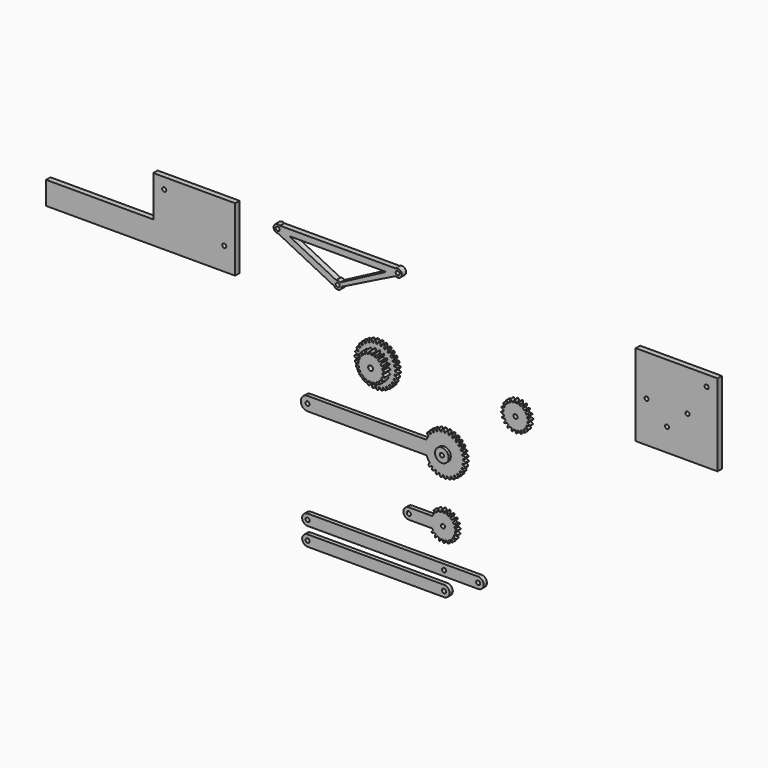
from build123d import *

# Parameters (mm, degrees)
F1_R     = 1.5
F2_DEPTH = 3
F3_DEPTH = 5
F0_R     = 1.5
F4_DEPTH = 3
F0_R_2   = 1.780497
F5_DEPTH = 8
F6_DEPTH = 3
F7_DEPTH = 25
F8_W     = 60
F8_H     = 60
F8_R     = 1.5
F9_DEPTH = 4


with BuildPart() as f2:
    # F1 (on Front) → F2 (new body)
    with BuildSketch(Plane.XZ):
        with BuildLine():
            Line((14.136599, -45.575803), (14.314097, -44.901619))
            ThreePointArc((14.314097, -44.901619), (13.567815, -44.128367), (12.565861, -43.739851))
            ThreePointArc((12.565861, -43.739851), (12.635517, -43.328711), (12.692717, -42.915654))
            ThreePointArc((12.692717, -42.915654), (13.765127, -42.846413), (14.70939, -42.33336))
            Line((14.70939, -42.33336), (14.742838, -41.637006))
            ThreePointArc((14.742838, -41.637006), (13.852096, -41.035811), (12.79126, -40.864104))
            ThreePointArc((12.79126, -40.864104), (12.773913, -40.447466), (12.743984, -40.031542))
            ThreePointArc((12.743984, -40.031542), (13.778563, -39.740848), (14.595522, -39.042683))
            Line((14.595522, -39.042683), (14.483459, -38.354591))
            ThreePointArc((14.483459, -38.354591), (13.487186, -37.95173), (12.413832, -38.004335))
            ThreePointArc((12.413832, -38.004335), (12.31024, -37.600408), (12.19449, -37.199796))
            ThreePointArc((12.19449, -37.199796), (13.146022, -36.700353), (13.799972, -35.84759))
            Line((13.799972, -35.84759), (13.547295, -35.197834))
            ThreePointArc((13.547295, -35.197834), (12.489034, -35.010913), (11.450073, -35.285531))
            ThreePointArc((11.450073, -35.285531), (11.264763, -34.911968), (11.06825, -34.544176))
            ThreePointArc((11.06825, -34.544176), (11.895149, -33.857813), (12.357509, -32.887721))
            Line((12.357509, -32.887721), (11.975262, -32.304698))
            ThreePointArc((11.975262, -32.304698), (10.901264, -32.341886), (9.942103, -32.826516))
            ThreePointArc((9.942103, -32.826516), (9.683175, -32.499644), (9.414488, -32.180747))
            ThreePointArc((9.414488, -32.180747), (10.080614, -31.337461), (10.331176, -30.292437))
            Line((10.331176, -30.292437), (9.836065, -29.801628))
            ThreePointArc((9.836065, -29.801628), (8.793268, -30.061301), (7.955827, -30.73476))
            ThreePointArc((7.955827, -30.73476), (7.634597, -30.468866), (7.305479, -30.212801))
            ThreePointArc((7.305479, -30.212801), (7.781719, -29.249447), (7.809534, -28.175165))
            Line((7.809534, -28.175165), (7.223198, -27.798021))
            ThreePointArc((7.223198, -27.798021), (6.257177, -28.268828), (5.578056, -29.101685))
            ThreePointArc((5.578056, -29.101685), (5.208563, -28.908389), (4.833398, -28.726347))
            ThreePointArc((4.833398, -28.726347), (5.098939, -27.685028), (4.90279, -26.628439))
            Line((4.90279, -26.628439), (4.250854, -26.381442))
            ThreePointArc((4.250854, -26.381442), (3.40383, -27.042809), (2.91271, -27.998663))
            ThreePointArc((2.91271, -27.998663), (2.511103, -27.886413), (2.106287, -27.78635))
            ThreePointArc((2.106287, -27.78635), (2.149523, -26.712578), (1.737983, -25.719859))
            Line((1.737983, -25.719859), (1.04894, -25.613805))
            ThreePointArc((1.04894, -25.613805), (0.357931, -26.436825), (0.076276, -27.473901))
            ThreePointArc((0.076276, -27.473901), (-0.339893, -27.447603), (-0.756667, -27.433892))
            ThreePointArc((-0.756667, -27.433892), (-0.937625, -26.374595), (-1.54657, -25.489134))
            Line((-1.54657, -25.489134), (-2.242606, -25.528657))
            ThreePointArc((-2.242606, -25.528657), (-2.747399, -26.477362), (-2.807278, -27.550334))
            ThreePointArc((-2.807278, -27.550334), (-3.219821, -27.611137), (-3.630338, -27.684378))
            ThreePointArc((-3.630338, -27.684378), (-4.027582, -26.685853), (-4.807318, -25.946347))
            Line((-4.807318, -25.946347), (-5.479926, -26.129721))
            ThreePointArc((-5.479926, -26.129721), (-5.776442, -27.162646), (-5.611929, -28.224622))
            ThreePointArc((-5.611929, -28.224622), (-6.002815, -28.369868), (-6.389133, -28.52686))
            ThreePointArc((-6.389133, -28.52686), (-6.985302, -27.632747), (-7.90175, -27.071517))
            Line((-7.90175, -27.071517), (-8.521535, -27.390727))
            ThreePointArc((-8.521535, -27.390727), (-8.596814, -28.46273), (-8.215099, -29.467294))
            ThreePointArc((-8.215099, -29.467294), (-8.567245, -29.690636), (-8.912481, -29.924518))
            ThreePointArc((-8.912481, -29.924518), (-9.681519, -29.173893), (-10.694626, -28.815468))
            Line((-10.694626, -28.815468), (-11.2345, -29.256564))
            ThreePointArc((-11.2345, -29.256564), (-11.085252, -30.320791), (-10.503018, -31.224041))
            ThreePointArc((-10.503018, -31.224041), (-10.801033, -31.515717), (-11.090098, -31.816266))
            ThreePointArc((-11.090098, -31.816266), (-11.998394, -31.241937), (-13.063883, -31.101981))
            Line((-13.063883, -31.101981), (-13.500251, -31.645684))
            ThreePointArc((-13.500251, -31.645684), (-13.132998, -32.655625), (-12.375692, -33.418083))
            ThreePointArc((-12.375692, -33.418083), (-13.200173, -34.780929), (-13.862097, -36.229713))
            Line((-13.862097, -36.229713), (-101.001895, -36.229713))
            ThreePointArc((-101.001895, -36.229713), (-106.001895, -41.229713), (-101.001895, -46.229713))
            Line((-101.001895, -46.229713), (-13.862097, -46.229713))
            ThreePointArc((-13.862097, -46.229713), (-12.814955, -48.359679), (-11.418278, -50.278678))
            ThreePointArc((-11.418278, -50.278678), (-12.084404, -51.121964), (-12.334966, -52.166988))
            Line((-12.334966, -52.166988), (-11.839855, -52.657797))
            ThreePointArc((-11.839855, -52.657797), (-10.797058, -52.398124), (-9.959617, -51.724665))
            ThreePointArc((-9.959617, -51.724665), (-9.638387, -51.990559), (-9.309269, -52.246624))
            ThreePointArc((-9.309269, -52.246624), (-9.785509, -53.209978), (-9.813324, -54.28426))
            Line((-9.813324, -54.28426), (-9.226988, -54.661405))
            ThreePointArc((-9.226988, -54.661405), (-8.260967, -54.190597), (-7.581846, -53.35774))
            ThreePointArc((-7.581846, -53.35774), (-7.212353, -53.551036), (-6.837188, -53.733078))
            ThreePointArc((-6.837188, -53.733078), (-7.102729, -54.774397), (-6.90658, -55.830986))
            Line((-6.90658, -55.830986), (-6.254644, -56.077983))
            ThreePointArc((-6.254644, -56.077983), (-5.40762, -55.416616), (-4.9165, -54.460762))
            ThreePointArc((-4.9165, -54.460762), (-4.514893, -54.573012), (-4.110077, -54.673076))
            ThreePointArc((-4.110077, -54.673076), (-4.153313, -55.746848), (-3.741773, -56.739566))
            Line((-3.741773, -56.739566), (-3.05273, -56.84562))
            ThreePointArc((-3.05273, -56.84562), (-2.361721, -56.0226), (-2.080066, -54.985524))
            ThreePointArc((-2.080066, -54.985524), (-1.663897, -55.011823), (-1.247123, -55.025533))
            ThreePointArc((-1.247123, -55.025533), (-1.066165, -56.08483), (-0.45722, -56.970292))
            Line((-0.45722, -56.970292), (0.238816, -56.930768))
            ThreePointArc((0.238816, -56.930768), (0.743609, -55.982064), (0.803488, -54.909091))
            ThreePointArc((0.803488, -54.909091), (1.216031, -54.848288), (1.626548, -54.775047))
            ThreePointArc((1.626548, -54.775047), (2.023792, -55.773573), (2.803528, -56.513078))
            Line((2.803528, -56.513078), (3.476136, -56.329704))
            ThreePointArc((3.476136, -56.329704), (3.772652, -55.296779), (3.608139, -54.234804))
            ThreePointArc((3.608139, -54.234804), (3.999025, -54.089557), (4.385343, -53.932565))
            ThreePointArc((4.385343, -53.932565), (4.981512, -54.826679), (5.89796, -55.387908))
            Line((5.89796, -55.387908), (6.517745, -55.068698))
            ThreePointArc((6.517745, -55.068698), (6.593024, -53.996696), (6.211309, -52.992131))
            ThreePointArc((6.211309, -52.992131), (6.563455, -52.768789), (6.908691, -52.534908))
            ThreePointArc((6.908691, -52.534908), (7.677728, -53.285532), (8.690836, -53.643957))
            Line((8.690836, -53.643957), (9.23071, -53.202862))
            ThreePointArc((9.23071, -53.202862), (9.081462, -52.138634), (8.499228, -51.235385))
            ThreePointArc((8.499228, -51.235385), (8.797243, -50.943708), (9.086308, -50.643159))
            ThreePointArc((9.086308, -50.643159), (9.994604, -51.217488), (11.060093, -51.357444))
            Line((11.060093, -51.357444), (11.496461, -50.813741))
            ThreePointArc((11.496461, -50.813741), (11.129208, -49.8038), (10.371902, -49.041342))
            ThreePointArc((10.371902, -49.041342), (10.602761, -48.694078), (10.823022, -48.339997))
            ThreePointArc((10.823022, -48.339997), (11.830879, -48.712931), (12.902184, -48.6283))
            Line((12.902184, -48.6283), (13.215973, -48.005753))
            ThreePointArc((13.215973, -48.005753), (12.646768, -47.094237), (11.747486, -46.505894))
            ThreePointArc((11.747486, -46.505894), (11.901101, -46.11822), (12.04293, -45.726082))
            ThreePointArc((12.04293, -45.726082), (13.106301, -45.881321), (14.136599, -45.575803))
        make_face()
        with Locations((-101.001895, -41.229713)):
            Circle(F1_R, mode=Mode.SUBTRACT)
        with BuildLine():
            ThreePointArc((-1.001895, -36.229713), (2.533639, -37.694179), (3.998105, -41.229713))
            ThreePointArc((3.998105, -41.229713), (-4.537429, -44.765246), (-1.001895, -36.229713))
        make_face(mode=Mode.SUBTRACT)
    extrude(amount=F2_DEPTH)

    # F1 (on Front) → F3 (join)
    with BuildSketch(Plane.XZ):
        with BuildLine():
            ThreePointArc((-1.001895, -36.229713), (-4.537429, -44.765246), (3.998105, -41.229713))
            ThreePointArc((3.998105, -41.229713), (2.533639, -37.694179), (-1.001895, -36.229713))
        make_face()
        with Locations((-1.001895, -41.229713)):
            Circle(F1_R, mode=Mode.SUBTRACT)
    extrude(amount=F3_DEPTH)


with BuildPart() as f4:
    # F1 (on Front) + F0 (on Front) → F4 (new body)
    with BuildSketch(Plane.XZ):
        with BuildLine():
            Line((7.197502, -93.999106), (7.37574, -93.722003))
            ThreePointArc((7.37574, -93.722003), (6.832136, -92.836716), (5.975618, -92.248825))
            ThreePointArc((5.975618, -92.248825), (6.299423, -91.589127), (6.567044, -90.904708))
            ThreePointArc((6.567044, -90.904708), (7.579138, -91.139026), (8.599093, -90.941721))
            Line((8.599093, -90.941721), (8.682979, -90.623102))
            ThreePointArc((8.682979, -90.623102), (7.892412, -89.949126), (6.896147, -89.654688))
            ThreePointArc((6.896147, -89.654688), (7.000246, -88.927217), (7.043271, -88.193596))
            ThreePointArc((7.043271, -88.193596), (8.078238, -88.103692), (8.987303, -87.600859))
            Line((8.987303, -87.600859), (8.968624, -87.271913))
            ThreePointArc((8.968624, -87.271913), (8.00848, -86.875222), (6.969989, -86.903057))
            ThreePointArc((6.969989, -86.903057), (6.844192, -86.179023), (6.65841, -85.468012))
            ThreePointArc((6.65841, -85.468012), (7.61494, -85.062686), (8.324128, -84.303548))
            Line((8.324128, -84.303548), (8.204714, -83.996473))
            ThreePointArc((8.204714, -83.996473), (7.168979, -83.915898), (6.189916, -84.263283))
            ThreePointArc((6.189916, -84.263283), (5.846538, -83.613558), (5.450134, -82.994757))
            ThreePointArc((5.450134, -82.994757), (6.234595, -82.313685), (6.674487, -81.37255))
            Line((6.674487, -81.37255), (6.466026, -81.117406))
            ThreePointArc((6.466026, -81.117406), (5.456084, -81.360835), (4.632288, -81.993764))
            ThreePointArc((4.632288, -81.993764), (4.10494, -81.481949), (3.536717, -81.01593))
            ThreePointArc((3.536717, -81.01593), (4.072322, -80.12578), (4.199857, -79.094773))
            Line((4.199857, -79.094773), (3.922754, -78.916535))
            ThreePointArc((3.922754, -78.916535), (3.037466, -79.460138), (2.449576, -80.316657))
            ThreePointArc((2.449576, -80.316657), (1.789878, -79.992852), (1.105459, -79.725231))
            ThreePointArc((1.105459, -79.725231), (1.339777, -78.713137), (1.142472, -77.693181))
            Line((1.142472, -77.693181), (0.823853, -77.609296))
            ThreePointArc((0.823853, -77.609296), (0.149877, -78.399863), (-0.144561, -79.396128))
            ThreePointArc((-0.144561, -79.396128), (-0.872033, -79.292029), (-1.605654, -79.249004))
            ThreePointArc((-1.605654, -79.249004), (-1.695558, -78.214037), (-2.19839, -77.304972))
            Line((-2.19839, -77.304972), (-2.527336, -77.323651))
            ThreePointArc((-2.527336, -77.323651), (-2.924027, -78.283795), (-2.896192, -79.322286))
            ThreePointArc((-2.896192, -79.322286), (-3.620226, -79.448083), (-4.331237, -79.633865))
            ThreePointArc((-4.331237, -79.633865), (-4.736563, -78.677335), (-5.495701, -77.968147))
            Line((-5.495701, -77.968147), (-5.802776, -78.087561))
            ThreePointArc((-5.802776, -78.087561), (-5.883351, -79.123296), (-5.535966, -80.102359))
            ThreePointArc((-5.535966, -80.102359), (-6.185691, -80.445737), (-6.804492, -80.842141))
            ThreePointArc((-6.804492, -80.842141), (-7.485564, -80.057679), (-8.426699, -79.617788))
            Line((-8.426699, -79.617788), (-8.681843, -79.826249))
            ThreePointArc((-8.681843, -79.826249), (-8.438414, -80.836191), (-7.805485, -81.659987))
            ThreePointArc((-7.805485, -81.659987), (-8.799262, -82.77681), (-9.589609, -84.045762))
            Line((-9.589609, -84.045762), (-26.753487, -84.045762))
            ThreePointArc((-26.753487, -84.045762), (-30.753487, -88.045762), (-26.753487, -92.045762))
            Line((-26.753487, -92.045762), (-9.589609, -92.045762))
            ThreePointArc((-9.589609, -92.045762), (-9.291698, -92.582301), (-8.957108, -93.096767))
            ThreePointArc((-8.957108, -93.096767), (-9.74157, -93.777839), (-10.181461, -94.718974))
            Line((-10.181461, -94.718974), (-9.973, -94.974117))
            ThreePointArc((-9.973, -94.974117), (-8.963058, -94.730689), (-8.139262, -94.09776))
            ThreePointArc((-8.139262, -94.09776), (-7.611914, -94.609575), (-7.043692, -95.075594))
            ThreePointArc((-7.043692, -95.075594), (-7.579296, -95.965744), (-7.706831, -96.996751))
            Line((-7.706831, -96.996751), (-7.429729, -97.174989))
            ThreePointArc((-7.429729, -97.174989), (-6.544441, -96.631386), (-5.95655, -95.774867))
            ThreePointArc((-5.95655, -95.774867), (-5.296852, -96.098672), (-4.612433, -96.366293))
            ThreePointArc((-4.612433, -96.366293), (-4.846751, -97.378387), (-4.649446, -98.398342))
            Line((-4.649446, -98.398342), (-4.330827, -98.482228))
            ThreePointArc((-4.330827, -98.482228), (-3.656851, -97.691661), (-3.362413, -96.695396))
            ThreePointArc((-3.362413, -96.695396), (-2.634942, -96.799495), (-1.901321, -96.84252))
            ThreePointArc((-1.901321, -96.84252), (-1.811417, -97.877487), (-1.308584, -98.786552))
            Line((-1.308584, -98.786552), (-0.979638, -98.767873))
            ThreePointArc((-0.979638, -98.767873), (-0.582947, -97.807729), (-0.610783, -96.769238))
            ThreePointArc((-0.610783, -96.769238), (0.113252, -96.643441), (0.824262, -96.457659))
            ThreePointArc((0.824262, -96.457659), (1.229589, -97.414189), (1.988727, -98.123377))
            Line((1.988727, -98.123377), (2.295801, -98.003963))
            ThreePointArc((2.295801, -98.003963), (2.376376, -96.968228), (2.028992, -95.989165))
            ThreePointArc((2.028992, -95.989165), (2.678716, -95.645787), (3.297518, -95.249383))
            ThreePointArc((3.297518, -95.249383), (3.97859, -96.033845), (4.919725, -96.473736))
            Line((4.919725, -96.473736), (5.174868, -96.265275))
            ThreePointArc((5.174868, -96.265275), (4.93144, -95.255333), (4.298511, -94.431537))
            ThreePointArc((4.298511, -94.431537), (4.810326, -93.904189), (5.276345, -93.335966))
            ThreePointArc((5.276345, -93.335966), (6.166495, -93.871571), (7.197502, -93.999106))
        make_face()
        with Locations((-26.753487, -88.045762)):
            Circle(F1_R, mode=Mode.SUBTRACT)
        with Locations((-1.753487, -88.045762)):
            Circle(F1_R, mode=Mode.SUBTRACT)
        with BuildLine():
            ThreePointArc((24.020362, -120.164796), (20.020362, -116.164796), (24.020362, -112.164796))
            Line((24.020362, -112.164796), (-100.979638, -112.164796))
            ThreePointArc((-100.979638, -112.164796), (-98.151211, -113.336369), (-96.979638, -116.164796))
            ThreePointArc((-96.979638, -116.164796), (-98.151211, -118.993223), (-100.979638, -120.164796))
            Line((-100.979638, -120.164796), (24.020362, -120.164796))
        make_face()
        with Locations((-0.979638, -116.164796)):
            Circle(F1_R, mode=Mode.SUBTRACT)
        with BuildLine():
            ThreePointArc((24.020362, -120.164796), (26.848789, -118.993223), (28.020362, -116.164796))
            ThreePointArc((28.020362, -116.164796), (26.848789, -113.336369), (24.020362, -112.164796))
            ThreePointArc((24.020362, -112.164796), (20.020362, -116.164796), (24.020362, -120.164796))
        make_face()
        with Locations((24.020362, -116.164796)):
            Circle(F1_R, mode=Mode.SUBTRACT)
        with BuildLine():
            ThreePointArc((-0.979638, -133.604071), (1.848789, -132.432499), (3.020362, -129.604071))
            ThreePointArc((3.020362, -129.604071), (1.848789, -126.775644), (-0.979638, -125.604071))
            ThreePointArc((-0.979638, -125.604071), (-4.979638, -129.604071), (-0.979638, -133.604071))
        make_face()
        with Locations((-0.979638, -129.604071)):
            Circle(F1_R, mode=Mode.SUBTRACT)
        with BuildLine():
            ThreePointArc((-0.979638, -133.604071), (-4.979638, -129.604071), (-0.979638, -125.604071))
            Line((-0.979638, -125.604071), (-100.979638, -125.604071))
            ThreePointArc((-100.979638, -125.604071), (-98.151211, -126.775644), (-96.979638, -129.604071))
            ThreePointArc((-96.979638, -129.604071), (-98.151211, -132.432499), (-100.979638, -133.604071))
            Line((-100.979638, -133.604071), (-0.979638, -133.604071))
        make_face()
        with BuildLine():
            ThreePointArc((-96.979638, -129.604071), (-98.151211, -126.775644), (-100.979638, -125.604071))
            ThreePointArc((-100.979638, -125.604071), (-104.979638, -129.604071), (-100.979638, -133.604071))
            ThreePointArc((-100.979638, -133.604071), (-98.151211, -132.432499), (-96.979638, -129.604071))
        make_face()
        with Locations((-100.979638, -129.604071)):
            Circle(F1_R, mode=Mode.SUBTRACT)
        with BuildLine():
            ThreePointArc((-96.979638, -116.164796), (-98.151211, -113.336369), (-100.979638, -112.164796))
            ThreePointArc((-100.979638, -112.164796), (-104.979638, -116.164796), (-100.979638, -120.164796))
            ThreePointArc((-100.979638, -120.164796), (-98.151211, -118.993223), (-96.979638, -116.164796))
        make_face()
        with Locations((-100.979638, -116.164796)):
            Circle(F1_R, mode=Mode.SUBTRACT)
    with BuildSketch(Plane.XZ):
        with Locations((51.400628, 0)):
            Circle(F0_R)
        with BuildLine():
            ThreePointArc((55.449916, -9.958201), (55.530491, -8.922466), (55.183107, -7.943403))
            ThreePointArc((55.183107, -7.943403), (54.589358, -8.199805), (53.978378, -8.411897))
            ThreePointArc((53.978378, -8.411897), (54.383704, -9.368427), (55.142842, -10.077615))
            Line((55.142842, -10.077615), (55.449916, -9.958201))
        make_face()
        with BuildLine():
            ThreePointArc((52.174477, -10.722111), (52.571168, -9.761967), (52.543333, -8.723476))
            ThreePointArc((52.543333, -8.723476), (51.899411, -8.78385), (51.252794, -8.796758))
            ThreePointArc((51.252794, -8.796758), (51.342698, -9.831725), (51.845531, -10.74079))
            Line((51.845531, -10.74079), (52.174477, -10.722111))
        make_face()
        with BuildLine():
            ThreePointArc((59.344031, 3.782479), (59.600433, 3.18873), (59.812525, 2.57775))
            ThreePointArc((59.812525, 2.57775), (60.769055, 2.983076), (61.478243, 3.742214))
            Line((61.478243, 3.742214), (61.358829, 4.049289))
            ThreePointArc((61.358829, 4.049289), (60.323094, 4.129864), (59.344031, 3.782479))
        make_face()
        with BuildLine():
            ThreePointArc((60.529855, -5.676242), (59.986252, -4.790954), (59.129733, -4.203063))
            ThreePointArc((59.129733, -4.203063), (58.800089, -4.759493), (58.43046, -5.290204))
            ThreePointArc((58.43046, -5.290204), (59.32061, -5.825809), (60.351617, -5.953344))
            Line((60.351617, -5.953344), (60.529855, -5.676242))
        make_face()
        with BuildLine():
            ThreePointArc((57.786403, 6.051998), (58.213734, 5.566541), (58.604249, 5.051005))
            ThreePointArc((58.604249, 5.051005), (59.388711, 5.732077), (59.828602, 6.673212))
            Line((59.828602, 6.673212), (59.620141, 6.928356))
            ThreePointArc((59.620141, 6.928356), (58.610199, 6.684927), (57.786403, 6.051998))
        make_face()
        with BuildLine():
            ThreePointArc((61.837094, -2.57734), (61.046527, -1.903364), (60.050262, -1.608926))
            ThreePointArc((60.050262, -1.608926), (59.908698, -2.239988), (59.721159, -2.858946))
            ThreePointArc((59.721159, -2.858946), (60.733253, -3.093264), (61.753208, -2.895959))
            Line((61.753208, -2.895959), (61.837094, -2.57734))
        make_face()
        with BuildLine():
            ThreePointArc((55.603691, 7.729105), (56.160121, 7.399461), (56.690832, 7.029832))
            ThreePointArc((56.690832, 7.029832), (57.226437, 7.919982), (57.353972, 8.950989))
            Line((57.353972, 8.950989), (57.076869, 9.129227))
            ThreePointArc((57.076869, 9.129227), (56.191582, 8.585624), (55.603691, 7.729105))
        make_face()
        with BuildLine():
            ThreePointArc((60.124104, 1.142705), (60.179977, 0.572566), (60.198628, 0))
            ThreePointArc((60.198628, 0), (60.198317, -0.073919), (60.197386, -0.147834))
            ThreePointArc((60.197386, -0.147834), (61.232353, -0.05793), (62.141418, 0.444903))
            Line((62.141418, 0.444903), (62.122739, 0.773849))
            ThreePointArc((62.122739, 0.773849), (61.162595, 1.17054), (60.124104, 1.142705))
        make_face()
        with BuildLine():
            ThreePointArc((60.197386, -0.147834), (60.198317, -0.073919), (60.198628, 0))
            ThreePointArc((60.198628, 0), (60.179977, 0.572566), (60.124104, 1.142705))
            ThreePointArc((60.124104, 1.142705), (59.998307, 1.866739), (59.812525, 2.57775))
            ThreePointArc((59.812525, 2.57775), (59.600433, 3.18873), (59.344031, 3.782479))
            ThreePointArc((59.344031, 3.782479), (59.000653, 4.432203), (58.604249, 5.051005))
            ThreePointArc((58.604249, 5.051005), (58.213734, 5.566541), (57.786403, 6.051998))
            ThreePointArc((57.786403, 6.051998), (57.259055, 6.563813), (56.690832, 7.029832))
            ThreePointArc((56.690832, 7.029832), (56.160121, 7.399461), (55.603691, 7.729105))
            ThreePointArc((55.603691, 7.729105), (54.943993, 8.05291), (54.259574, 8.320531))
            ThreePointArc((54.259574, 8.320531), (53.640616, 8.50807), (53.009554, 8.649634))
            ThreePointArc((53.009554, 8.649634), (52.282083, 8.753733), (51.548462, 8.796758))
            ThreePointArc((51.548462, 8.796758), (50.901845, 8.78385), (50.257923, 8.723476))
            ThreePointArc((50.257923, 8.723476), (49.533889, 8.597679), (48.822878, 8.411897))
            ThreePointArc((48.822878, 8.411897), (48.211898, 8.199805), (47.618149, 7.943403))
            ThreePointArc((47.618149, 7.943403), (46.968424, 7.600025), (46.349623, 7.203621))
            ThreePointArc((46.349623, 7.203621), (45.834086, 6.813106), (45.34863, 6.385775))
            ThreePointArc((45.34863, 6.385775), (44.836815, 5.858427), (44.370796, 5.290204))
            ThreePointArc((44.370796, 5.290204), (44.001167, 4.759493), (43.671523, 4.203063))
            ThreePointArc((43.671523, 4.203063), (43.347718, 3.543365), (43.080097, 2.858946))
            ThreePointArc((43.080097, 2.858946), (42.892558, 2.239988), (42.750994, 1.608926))
            ThreePointArc((42.750994, 1.608926), (42.646895, 0.881455), (42.60387, 0.147834))
            ThreePointArc((42.60387, 0.147834), (42.616778, -0.498783), (42.677152, -1.142705))
            ThreePointArc((42.677152, -1.142705), (42.802949, -1.866739), (42.988731, -2.57775))
            ThreePointArc((42.988731, -2.57775), (43.200823, -3.18873), (43.457225, -3.782479))
            ThreePointArc((43.457225, -3.782479), (43.800603, -4.432203), (44.197007, -5.051005))
            ThreePointArc((44.197007, -5.051005), (44.587521, -5.566541), (45.014853, -6.051998))
            ThreePointArc((45.014853, -6.051998), (45.542201, -6.563813), (46.110424, -7.029832))
            ThreePointArc((46.110424, -7.029832), (46.641135, -7.399461), (47.197565, -7.729105))
            ThreePointArc((47.197565, -7.729105), (47.857263, -8.05291), (48.541682, -8.320531))
            ThreePointArc((48.541682, -8.320531), (49.16064, -8.50807), (49.791702, -8.649634))
            ThreePointArc((49.791702, -8.649634), (50.519173, -8.753733), (51.252794, -8.796758))
            ThreePointArc((51.252794, -8.796758), (51.899411, -8.78385), (52.543333, -8.723476))
            ThreePointArc((52.543333, -8.723476), (53.267367, -8.597679), (53.978378, -8.411897))
            ThreePointArc((53.978378, -8.411897), (54.589358, -8.199805), (55.183107, -7.943403))
            ThreePointArc((55.183107, -7.943403), (55.832831, -7.600025), (56.451633, -7.203621))
            ThreePointArc((56.451633, -7.203621), (56.967169, -6.813106), (57.452626, -6.385775))
            ThreePointArc((57.452626, -6.385775), (57.964441, -5.858427), (58.43046, -5.290204))
            ThreePointArc((58.43046, -5.290204), (58.800089, -4.759493), (59.129733, -4.203063))
            ThreePointArc((59.129733, -4.203063), (59.453538, -3.543365), (59.721159, -2.858946))
            ThreePointArc((59.721159, -2.858946), (59.908698, -2.239988), (60.050262, -1.608926))
            ThreePointArc((60.050262, -1.608926), (60.154361, -0.881455), (60.197386, -0.147834))
        make_face()
        with Locations((51.400628, 0)):
            Circle(F0_R, mode=Mode.SUBTRACT)
        with BuildLine():
            ThreePointArc((43.671523, 4.203063), (44.001167, 4.759493), (44.370796, 5.290204))
            ThreePointArc((44.370796, 5.290204), (43.480646, 5.825809), (42.449639, 5.953344))
            Line((42.449639, 5.953344), (42.271401, 5.676242))
            ThreePointArc((42.271401, 5.676242), (42.815004, 4.790954), (43.671523, 4.203063))
        make_face()
        with BuildLine():
            ThreePointArc((42.750994, 1.608926), (42.892558, 2.239988), (43.080097, 2.858946))
            ThreePointArc((43.080097, 2.858946), (42.068003, 3.093264), (41.048047, 2.895959))
            Line((41.048047, 2.895959), (40.964162, 2.57734))
            ThreePointArc((40.964162, 2.57734), (41.754729, 1.903364), (42.750994, 1.608926))
        make_face()
        with BuildLine():
            ThreePointArc((42.677152, -1.142705), (42.616778, -0.498783), (42.60387, 0.147834))
            ThreePointArc((42.60387, 0.147834), (41.568903, 0.05793), (40.659838, -0.444903))
            Line((40.659838, -0.444903), (40.678517, -0.773849))
            ThreePointArc((40.678517, -0.773849), (41.638661, -1.17054), (42.677152, -1.142705))
        make_face()
        with BuildLine():
            ThreePointArc((41.442427, -4.049289), (42.478162, -4.129864), (43.457225, -3.782479))
            ThreePointArc((43.457225, -3.782479), (43.200823, -3.18873), (42.988731, -2.57775))
            ThreePointArc((42.988731, -2.57775), (42.032201, -2.983076), (41.323013, -3.742214))
            Line((41.323013, -3.742214), (41.442427, -4.049289))
        make_face()
        with BuildLine():
            ThreePointArc((43.181115, -6.928356), (44.191057, -6.684927), (45.014853, -6.051998))
            ThreePointArc((45.014853, -6.051998), (44.587521, -5.566541), (44.197007, -5.051005))
            ThreePointArc((44.197007, -5.051005), (43.412545, -5.732077), (42.972654, -6.673212))
            Line((42.972654, -6.673212), (43.181115, -6.928356))
        make_face()
        with BuildLine():
            ThreePointArc((45.724386, -9.129227), (46.609674, -8.585624), (47.197565, -7.729105))
            ThreePointArc((47.197565, -7.729105), (46.641135, -7.399461), (46.110424, -7.029832))
            ThreePointArc((46.110424, -7.029832), (45.574819, -7.919982), (45.447284, -8.950989))
            Line((45.447284, -8.950989), (45.724386, -9.129227))
        make_face()
        with BuildLine():
            ThreePointArc((48.823288, -10.436466), (49.497264, -9.645899), (49.791702, -8.649634))
            ThreePointArc((49.791702, -8.649634), (49.16064, -8.50807), (48.541682, -8.320531))
            ThreePointArc((48.541682, -8.320531), (48.307364, -9.332625), (48.504669, -10.35258))
            Line((48.504669, -10.35258), (48.823288, -10.436466))
        make_face()
        with BuildLine():
            ThreePointArc((58.328983, -8.219513), (58.085555, -7.209571), (57.452626, -6.385775))
            ThreePointArc((57.452626, -6.385775), (56.967169, -6.813106), (56.451633, -7.203621))
            ThreePointArc((56.451633, -7.203621), (57.132705, -7.988083), (58.07384, -8.427974))
            Line((58.07384, -8.427974), (58.328983, -8.219513))
        make_face()
        with BuildLine():
            ThreePointArc((53.009554, 8.649634), (53.640616, 8.50807), (54.259574, 8.320531))
            ThreePointArc((54.259574, 8.320531), (54.493892, 9.332625), (54.296587, 10.35258))
            Line((54.296587, 10.35258), (53.977968, 10.436466))
            ThreePointArc((53.977968, 10.436466), (53.303992, 9.645899), (53.009554, 8.649634))
        make_face()
        with BuildLine():
            ThreePointArc((50.257923, 8.723476), (50.901845, 8.78385), (51.548462, 8.796758))
            ThreePointArc((51.548462, 8.796758), (51.458558, 9.831725), (50.955725, 10.74079))
            Line((50.955725, 10.74079), (50.626779, 10.722111))
            ThreePointArc((50.626779, 10.722111), (50.230088, 9.761967), (50.257923, 8.723476))
        make_face()
        with BuildLine():
            ThreePointArc((47.618149, 7.943403), (48.211898, 8.199805), (48.822878, 8.411897))
            ThreePointArc((48.822878, 8.411897), (48.417552, 9.368427), (47.658414, 10.077615))
            Line((47.658414, 10.077615), (47.351339, 9.958201))
            ThreePointArc((47.351339, 9.958201), (47.270764, 8.922466), (47.618149, 7.943403))
        make_face()
        with BuildLine():
            ThreePointArc((45.34863, 6.385775), (45.834086, 6.813106), (46.349623, 7.203621))
            ThreePointArc((46.349623, 7.203621), (45.668551, 7.988083), (44.727416, 8.427974))
            Line((44.727416, 8.427974), (44.472272, 8.219513))
            ThreePointArc((44.472272, 8.219513), (44.715701, 7.209571), (45.34863, 6.385775))
        make_face()
    extrude(amount=F4_DEPTH)

    # F0 (on Front) → F7 (cut)
    with BuildSketch(Plane.XZ):
        with Locations((51.400628, 0)):
            Circle(F0_R)
    extrude(amount=F7_DEPTH, mode=Mode.SUBTRACT)


with BuildPart() as f5:
    # F0 (on Front) → F5 (new body)
    with BuildSketch(Plane.XZ):
        with BuildLine():
            ThreePointArc((-54.892179, 9.950866), (-54.951079, 8.919614), (-54.588057, 7.952575))
            ThreePointArc((-54.588057, 7.952575), (-54.884722, 7.805296), (-55.175633, 7.646955))
            ThreePointArc((-55.175633, 7.646955), (-55.540024, 7.427813), (-55.8934, 7.191321))
            ThreePointArc((-55.8934, 7.191321), (-56.556308, 7.983472), (-57.482867, 8.440021))
            Line((-57.482867, 8.440021), (-57.768099, 8.206977))
            ThreePointArc((-57.768099, 8.206977), (-57.505442, 7.207997), (-56.861356, 6.400468))
            ThreePointArc((-56.861356, 6.400468), (-57.388712, 5.858427), (-57.867571, 5.2731))
            ThreePointArc((-57.867571, 5.2731), (-58.742821, 5.821631), (-59.765113, 5.969512))
            Line((-59.765113, 5.969512), (-59.96437, 5.659732))
            ThreePointArc((-59.96437, 5.659732), (-59.405866, 4.790812), (-58.543764, 4.221839))
            ThreePointArc((-58.543764, 4.221839), (-58.87781, 3.543365), (-59.152355, 2.838711))
            ThreePointArc((-59.152355, 2.838711), (-60.154273, 3.089927), (-61.172229, 2.914665))
            Line((-61.172229, 2.914665), (-61.266006, 2.558473))
            ThreePointArc((-61.266006, 2.558473), (-60.466326, 1.904668), (-59.470596, 1.629947))
            ThreePointArc((-59.470596, 1.629947), (-59.578632, 0.881455), (-59.62199, 0.126449))
            ThreePointArc((-59.62199, 0.126449), (-60.652501, 0.05576), (-61.566475, -0.425489))
            Line((-61.566475, -0.425489), (-61.545594, -0.793227))
            ThreePointArc((-61.545594, -0.793227), (-60.583016, -1.167918), (-59.551127, -1.121495))
            ThreePointArc((-59.551127, -1.121495), (-59.422579, -1.866739), (-59.230505, -2.59819))
            ThreePointArc((-59.230505, -2.59819), (-60.188735, -2.983865), (-60.909262, -3.723994))
            Line((-60.909262, -3.723994), (-60.775765, -4.06728))
            ThreePointArc((-60.775765, -4.06728), (-59.744513, -4.12618), (-58.777474, -3.763158))
            ThreePointArc((-58.777474, -3.763158), (-58.424924, -4.432203), (-58.01622, -5.068501))
            ThreePointArc((-58.01622, -5.068501), (-58.808371, -5.731409), (-59.26492, -6.657968))
            Line((-59.26492, -6.657968), (-59.031876, -6.9432))
            ThreePointArc((-59.031876, -6.9432), (-58.032897, -6.680543), (-57.225367, -6.036457))
            ThreePointArc((-57.225367, -6.036457), (-56.683326, -6.563813), (-56.097999, -7.042671))
            ThreePointArc((-56.097999, -7.042671), (-56.64653, -7.917922), (-56.794411, -8.940214))
            Line((-56.794411, -8.940214), (-56.484632, -9.139471))
            ThreePointArc((-56.484632, -9.139471), (-55.615711, -8.580967), (-55.046739, -7.718865))
            ThreePointArc((-55.046739, -7.718865), (-54.368265, -8.05291), (-53.66361, -8.327456))
            ThreePointArc((-53.66361, -8.327456), (-53.914826, -9.329374), (-53.739564, -10.347329))
            Line((-53.739564, -10.347329), (-53.383373, -10.441107))
            ThreePointArc((-53.383373, -10.441107), (-52.729567, -9.641427), (-52.454847, -8.645697))
            ThreePointArc((-52.454847, -8.645697), (-51.706354, -8.753733), (-50.951348, -8.797091))
            ThreePointArc((-50.951348, -8.797091), (-50.880659, -9.827602), (-50.39941, -10.741576))
            Line((-50.39941, -10.741576), (-50.031673, -10.720695))
            ThreePointArc((-50.031673, -10.720695), (-49.656981, -9.758117), (-49.703404, -8.726228))
            ThreePointArc((-49.703404, -8.726228), (-48.95816, -8.597679), (-48.226709, -8.405606))
            ThreePointArc((-48.226709, -8.405606), (-47.841034, -9.363836), (-47.100905, -10.084363))
            Line((-47.100905, -10.084363), (-46.757619, -9.950866))
            ThreePointArc((-46.757619, -9.950866), (-46.698719, -8.919614), (-47.061741, -7.952575))
            ThreePointArc((-47.061741, -7.952575), (-46.392696, -7.600025), (-45.756398, -7.191321))
            ThreePointArc((-45.756398, -7.191321), (-45.093491, -7.983472), (-44.166931, -8.440021))
            Line((-44.166931, -8.440021), (-43.881699, -8.206977))
            ThreePointArc((-43.881699, -8.206977), (-44.144357, -7.207997), (-44.788442, -6.400468))
            ThreePointArc((-44.788442, -6.400468), (-44.261086, -5.858427), (-43.782228, -5.2731))
            ThreePointArc((-43.782228, -5.2731), (-42.906977, -5.821631), (-41.884685, -5.969512))
            Line((-41.884685, -5.969512), (-41.685428, -5.659732))
            ThreePointArc((-41.685428, -5.659732), (-42.243932, -4.790812), (-43.106034, -4.221839))
            ThreePointArc((-43.106034, -4.221839), (-42.771989, -3.543365), (-42.497443, -2.838711))
            ThreePointArc((-42.497443, -2.838711), (-41.495525, -3.089927), (-40.47757, -2.914665))
            Line((-40.47757, -2.914665), (-40.383792, -2.558473))
            ThreePointArc((-40.383792, -2.558473), (-41.183472, -1.904668), (-42.179202, -1.629947))
            ThreePointArc((-42.179202, -1.629947), (-42.071166, -0.881455), (-42.027808, -0.126449))
            ThreePointArc((-42.027808, -0.126449), (-40.997297, -0.05576), (-40.083323, 0.425489))
            Line((-40.083323, 0.425489), (-40.104205, 0.793227))
            ThreePointArc((-40.104205, 0.793227), (-41.066783, 1.167918), (-42.098671, 1.121495))
            ThreePointArc((-42.098671, 1.121495), (-42.22722, 1.866739), (-42.419293, 2.59819))
            ThreePointArc((-42.419293, 2.59819), (-41.461063, 2.983865), (-40.740537, 3.723994))
            Line((-40.740537, 3.723994), (-40.874033, 4.06728))
            ThreePointArc((-40.874033, 4.06728), (-41.905285, 4.12618), (-42.872324, 3.763158))
            ThreePointArc((-42.872324, 3.763158), (-43.224874, 4.432203), (-43.633578, 5.068501))
            ThreePointArc((-43.633578, 5.068501), (-42.841427, 5.731409), (-42.384878, 6.657968))
            Line((-42.384878, 6.657968), (-42.617922, 6.9432))
            ThreePointArc((-42.617922, 6.9432), (-43.616902, 6.680543), (-44.424431, 6.036457))
            ThreePointArc((-44.424431, 6.036457), (-44.966472, 6.563813), (-45.551799, 7.042671))
            ThreePointArc((-45.551799, 7.042671), (-45.003269, 7.917922), (-44.855387, 8.940214))
            Line((-44.855387, 8.940214), (-45.165167, 9.139471))
            ThreePointArc((-45.165167, 9.139471), (-46.034088, 8.580967), (-46.60306, 7.718865))
            ThreePointArc((-46.60306, 7.718865), (-47.281534, 8.05291), (-47.986188, 8.327456))
            ThreePointArc((-47.986188, 8.327456), (-47.734972, 9.329374), (-47.910234, 10.347329))
            Line((-47.910234, 10.347329), (-48.266426, 10.441107))
            ThreePointArc((-48.266426, 10.441107), (-48.920231, 9.641427), (-49.194952, 8.645697))
            ThreePointArc((-49.194952, 8.645697), (-49.943445, 8.753733), (-50.69845, 8.797091))
            ThreePointArc((-50.69845, 8.797091), (-50.769139, 9.827602), (-51.250389, 10.741576))
            Line((-51.250389, 10.741576), (-51.618126, 10.720695))
            ThreePointArc((-51.618126, 10.720695), (-51.992817, 9.758117), (-51.946394, 8.726228))
            ThreePointArc((-51.946394, 8.726228), (-52.691638, 8.597679), (-53.42309, 8.405606))
            ThreePointArc((-53.42309, 8.405606), (-53.808764, 9.363836), (-54.548893, 10.084363))
            Line((-54.548893, 10.084363), (-54.892179, 9.950866))
        make_face()
        with Locations((-50.824899, 0)):
            Circle(F0_R_2, mode=Mode.SUBTRACT)
    extrude(amount=F5_DEPTH)

    # F0 (on Front) → F6 (join)
    with BuildSketch(Plane.XZ):
        with BuildLine():
            ThreePointArc((-61.146215, 11.896762), (-60.88423, 10.896053), (-60.239563, 10.087066))
            ThreePointArc((-60.239563, 10.087066), (-60.624037, 9.713995), (-60.993739, 9.32628))
            ThreePointArc((-60.993739, 9.32628), (-61.80832, 9.963863), (-62.811278, 10.217105))
            Line((-62.811278, 10.217105), (-63.394145, 9.490867))
            ThreePointArc((-63.394145, 9.490867), (-62.929826, 8.566496), (-62.131049, 7.909221))
            ThreePointArc((-62.131049, 7.909221), (-62.429556, 7.464366), (-62.710568, 7.008258))
            ThreePointArc((-62.710568, 7.008258), (-63.63991, 7.462547), (-64.673602, 7.501728))
            Line((-64.673602, 7.501728), (-65.092739, 6.670176))
            ThreePointArc((-65.092739, 6.670176), (-64.446379, 5.862541), (-63.528402, 5.385705))
            ThreePointArc((-63.528402, 5.385705), (-63.727895, 4.888508), (-63.907936, 4.383941))
            ThreePointArc((-63.907936, 4.383941), (-64.911422, 4.635082), (-65.930672, 4.45849))
            Line((-65.930672, 4.45849), (-66.16776, 3.557966))
            ThreePointArc((-66.16776, 3.557966), (-65.367608, 2.902366), (-64.370551, 2.626807))
            ThreePointArc((-64.370551, 2.626807), (-64.462311, 2.098998), (-64.533513, 1.568025))
            ThreePointArc((-64.533513, 1.568025), (-65.567285, 1.605041), (-66.527547, 1.220395))
            Line((-66.527547, 1.220395), (-66.572224, 0.290256))
            ThreePointArc((-66.572224, 0.290256), (-65.653251, -0.184657), (-64.62069, -0.246894))
            ThreePointArc((-64.62069, -0.246894), (-64.600707, -0.782247), (-64.559958, -1.316421))
            ThreePointArc((-64.559958, -1.316421), (-65.578836, -1.495147), (-66.438141, -2.071038))
            Line((-66.438141, -2.071038), (-66.288455, -2.99014))
            ThreePointArc((-66.288455, -2.99014), (-65.290823, -3.263609), (-64.267887, -3.109805))
            ThreePointArc((-64.267887, -3.109805), (-64.137035, -3.629305), (-63.986115, -4.143333))
            ThreePointArc((-63.986115, -4.143333), (-64.945568, -4.52999), (-65.666361, -5.271956))
            Line((-65.666361, -5.271956), (-65.328854, -6.139853))
            ThreePointArc((-65.328854, -6.139853), (-64.296166, -6.199926), (-63.32756, -5.836803))
            ThreePointArc((-63.32756, -5.836803), (-63.091558, -6.317744), (-62.837063, -6.789162))
            ThreePointArc((-62.837063, -6.789162), (-63.69516, -7.366851), (-64.245938, -8.242464))
            Line((-64.245938, -8.242464), (-63.735361, -9.021224))
            ThreePointArc((-63.735361, -9.021224), (-62.712749, -8.865277), (-61.840808, -8.308704))
            ThreePointArc((-61.840808, -8.308704), (-61.509969, -8.730068), (-61.163022, -9.138272))
            ThreePointArc((-61.163022, -9.138272), (-61.882259, -9.881746), (-62.238951, -10.852738))
            Line((-62.238951, -10.852738), (-61.577618, -11.508324))
            ThreePointArc((-61.577618, -11.508324), (-60.609776, -11.143172), (-59.872607, -10.417475))
            ThreePointArc((-59.872607, -10.417475), (-59.461391, -10.760846), (-59.037156, -11.087995))
            ThreePointArc((-59.037156, -11.087995), (-59.586099, -11.96476), (-59.733116, -12.988694))
            Line((-59.733116, -12.988694), (-58.94993, -13.492456))
            ThreePointArc((-58.94993, -13.492456), (-58.079157, -12.934057), (-57.508978, -12.070952))
            ThreePointArc((-57.508978, -12.070952), (-57.035358, -12.321323), (-56.552375, -12.55312))
            ThreePointArc((-56.552375, -12.55312), (-56.907032, -13.524857), (-56.837949, -14.556982))
            Line((-56.837949, -14.556982), (-55.96714, -14.886902))
            ThreePointArc((-55.96714, -14.886902), (-55.231493, -14.159662), (-54.853223, -13.196871))
            ThreePointArc((-54.853223, -13.196871), (-54.337897, -13.3433), (-53.817275, -13.469614))
            ThreePointArc((-53.817275, -13.469614), (-53.962147, -14.493853), (-53.679982, -15.489061))
            Line((-53.679982, -15.489061), (-52.759608, -15.63072))
            ThreePointArc((-52.759608, -15.63072), (-52.191239, -14.766422), (-52.02141, -13.746024))
            ThreePointArc((-52.02141, -13.746024), (-51.486901, -13.78211), (-50.951394, -13.79742))
            ThreePointArc((-50.951394, -13.79742), (-50.880149, -14.829398), (-50.397235, -15.744193))
            Line((-50.397235, -15.744193), (-49.467521, -15.6914))
            ThreePointArc((-49.467521, -15.6914), (-49.091269, -14.727818), (-49.137305, -13.694409))
            ThreePointArc((-49.137305, -13.694409), (-48.606973, -13.618576), (-48.079985, -13.522213))
            ThreePointArc((-48.079985, -13.522213), (-47.795736, -14.516827), (-47.133179, -15.311228))
            Line((-47.133179, -15.311228), (-46.234758, -15.06629))
            ThreePointArc((-46.234758, -15.06629), (-46.067068, -14.045538), (-46.326955, -13.044282))
            ThreePointArc((-46.326955, -13.044282), (-45.823979, -12.859845), (-45.328542, -12.656021))
            ThreePointArc((-45.328542, -12.656021), (-44.843713, -13.569801), (-44.030469, -14.209089))
            Line((-44.030469, -14.209089), (-43.202605, -13.782711))
            ThreePointArc((-43.202605, -13.782711), (-43.250806, -12.749401), (-43.713187, -11.824058))
            ThreePointArc((-43.713187, -11.824058), (-43.259549, -11.539076), (-42.817316, -11.236699))
            ThreePointArc((-42.817316, -11.236699), (-42.153096, -12.02971), (-41.224707, -12.485945))
            Line((-41.224707, -12.485945), (-40.503584, -11.896762))
            ThreePointArc((-40.503584, -11.896762), (-40.765569, -10.896053), (-41.410235, -10.087066))
            ThreePointArc((-41.410235, -10.087066), (-41.025761, -9.713995), (-40.65606, -9.32628))
            ThreePointArc((-40.65606, -9.32628), (-39.841478, -9.963863), (-38.838521, -10.217105))
            Line((-38.838521, -10.217105), (-38.255653, -9.490867))
            ThreePointArc((-38.255653, -9.490867), (-38.719972, -8.566496), (-39.518749, -7.909221))
            ThreePointArc((-39.518749, -7.909221), (-39.220243, -7.464366), (-38.93923, -7.008258))
            ThreePointArc((-38.93923, -7.008258), (-38.009889, -7.462547), (-36.976196, -7.501728))
            Line((-36.976196, -7.501728), (-36.557059, -6.670176))
            ThreePointArc((-36.557059, -6.670176), (-37.203419, -5.862541), (-38.121396, -5.385705))
            ThreePointArc((-38.121396, -5.385705), (-37.921904, -4.888508), (-37.741862, -4.383941))
            ThreePointArc((-37.741862, -4.383941), (-36.738377, -4.635082), (-35.719127, -4.45849))
            Line((-35.719127, -4.45849), (-35.482038, -3.557966))
            ThreePointArc((-35.482038, -3.557966), (-36.282191, -2.902366), (-37.279247, -2.626807))
            ThreePointArc((-37.279247, -2.626807), (-37.187487, -2.098998), (-37.116285, -1.568025))
            ThreePointArc((-37.116285, -1.568025), (-36.082513, -1.605041), (-35.122252, -1.220395))
            Line((-35.122252, -1.220395), (-35.077574, -0.290256))
            ThreePointArc((-35.077574, -0.290256), (-35.996548, 0.184657), (-37.029108, 0.246894))
            ThreePointArc((-37.029108, 0.246894), (-37.049091, 0.782247), (-37.08984, 1.316421))
            ThreePointArc((-37.08984, 1.316421), (-36.070963, 1.495147), (-35.211658, 2.071038))
            Line((-35.211658, 2.071038), (-35.361343, 2.99014))
            ThreePointArc((-35.361343, 2.99014), (-36.358975, 3.263609), (-37.381912, 3.109805))
            ThreePointArc((-37.381912, 3.109805), (-37.512764, 3.629305), (-37.663684, 4.143333))
            ThreePointArc((-37.663684, 4.143333), (-36.70423, 4.52999), (-35.983438, 5.271956))
            Line((-35.983438, 5.271956), (-36.320944, 6.139853))
            ThreePointArc((-36.320944, 6.139853), (-37.353633, 6.199926), (-38.322238, 5.836803))
            ThreePointArc((-38.322238, 5.836803), (-38.558241, 6.317744), (-38.812735, 6.789162))
            ThreePointArc((-38.812735, 6.789162), (-37.954639, 7.366851), (-37.40386, 8.242464))
            Line((-37.40386, 8.242464), (-37.914438, 9.021224))
            ThreePointArc((-37.914438, 9.021224), (-38.93705, 8.865277), (-39.808991, 8.308704))
            ThreePointArc((-39.808991, 8.308704), (-40.13983, 8.730068), (-40.486776, 9.138272))
            ThreePointArc((-40.486776, 9.138272), (-39.767539, 9.881746), (-39.410847, 10.852738))
            Line((-39.410847, 10.852738), (-40.07218, 11.508324))
            ThreePointArc((-40.07218, 11.508324), (-41.040022, 11.143172), (-41.777191, 10.417475))
            ThreePointArc((-41.777191, 10.417475), (-42.188407, 10.760846), (-42.612642, 11.087995))
            ThreePointArc((-42.612642, 11.087995), (-42.0637, 11.96476), (-41.916682, 12.988694))
            Line((-41.916682, 12.988694), (-42.699868, 13.492456))
            ThreePointArc((-42.699868, 13.492456), (-43.570641, 12.934057), (-44.14082, 12.070952))
            ThreePointArc((-44.14082, 12.070952), (-44.614441, 12.321323), (-45.097424, 12.55312))
            ThreePointArc((-45.097424, 12.55312), (-44.742766, 13.524857), (-44.81185, 14.556982))
            Line((-44.81185, 14.556982), (-45.682659, 14.886902))
            ThreePointArc((-45.682659, 14.886902), (-46.418306, 14.159662), (-46.796576, 13.196871))
            ThreePointArc((-46.796576, 13.196871), (-47.311902, 13.3433), (-47.832523, 13.469614))
            ThreePointArc((-47.832523, 13.469614), (-47.687652, 14.493853), (-47.969816, 15.489061))
            Line((-47.969816, 15.489061), (-48.89019, 15.63072))
            ThreePointArc((-48.89019, 15.63072), (-49.45856, 14.766422), (-49.628388, 13.746024))
            ThreePointArc((-49.628388, 13.746024), (-50.162897, 13.78211), (-50.698404, 13.79742))
            ThreePointArc((-50.698404, 13.79742), (-50.76965, 14.829398), (-51.252563, 15.744193))
            Line((-51.252563, 15.744193), (-52.182277, 15.6914))
            ThreePointArc((-52.182277, 15.6914), (-52.558529, 14.727818), (-52.512494, 13.694409))
            ThreePointArc((-52.512494, 13.694409), (-53.042825, 13.618576), (-53.569813, 13.522213))
            ThreePointArc((-53.569813, 13.522213), (-53.854062, 14.516827), (-54.51662, 15.311228))
            Line((-54.51662, 15.311228), (-55.415041, 15.06629))
            ThreePointArc((-55.415041, 15.06629), (-55.582731, 14.045538), (-55.322843, 13.044282))
            ThreePointArc((-55.322843, 13.044282), (-55.825819, 12.859845), (-56.321256, 12.656021))
            ThreePointArc((-56.321256, 12.656021), (-56.806086, 13.569801), (-57.61933, 14.209089))
            Line((-57.61933, 14.209089), (-58.447193, 13.782711))
            ThreePointArc((-58.447193, 13.782711), (-58.398992, 12.749401), (-57.936611, 11.824058))
            ThreePointArc((-57.936611, 11.824058), (-58.390249, 11.539076), (-58.832482, 11.236699))
            ThreePointArc((-58.832482, 11.236699), (-59.496703, 12.02971), (-60.425091, 12.485945))
            Line((-60.425091, 12.485945), (-61.146215, 11.896762))
        make_face()
        with BuildLine():
            ThreePointArc((-55.175633, 7.646955), (-54.884722, 7.805296), (-54.588057, 7.952575))
            ThreePointArc((-54.588057, 7.952575), (-54.951079, 8.919614), (-54.892179, 9.950866))
            Line((-54.892179, 9.950866), (-54.548893, 10.084363))
            ThreePointArc((-54.548893, 10.084363), (-53.808764, 9.363836), (-53.42309, 8.405606))
            ThreePointArc((-53.42309, 8.405606), (-52.691638, 8.597679), (-51.946394, 8.726228))
            ThreePointArc((-51.946394, 8.726228), (-51.992817, 9.758117), (-51.618126, 10.720695))
            Line((-51.618126, 10.720695), (-51.250389, 10.741576))
            ThreePointArc((-51.250389, 10.741576), (-50.769139, 9.827602), (-50.69845, 8.797091))
            ThreePointArc((-50.69845, 8.797091), (-49.943445, 8.753733), (-49.194952, 8.645697))
            ThreePointArc((-49.194952, 8.645697), (-48.920231, 9.641427), (-48.266426, 10.441107))
            Line((-48.266426, 10.441107), (-47.910234, 10.347329))
            ThreePointArc((-47.910234, 10.347329), (-47.734972, 9.329374), (-47.986188, 8.327456))
            ThreePointArc((-47.986188, 8.327456), (-47.281534, 8.05291), (-46.60306, 7.718865))
            ThreePointArc((-46.60306, 7.718865), (-46.034088, 8.580967), (-45.165167, 9.139471))
            Line((-45.165167, 9.139471), (-44.855387, 8.940214))
            ThreePointArc((-44.855387, 8.940214), (-45.003269, 7.917922), (-45.551799, 7.042671))
            ThreePointArc((-45.551799, 7.042671), (-44.966472, 6.563813), (-44.424431, 6.036457))
            ThreePointArc((-44.424431, 6.036457), (-43.616902, 6.680543), (-42.617922, 6.9432))
            Line((-42.617922, 6.9432), (-42.384878, 6.657968))
            ThreePointArc((-42.384878, 6.657968), (-42.841427, 5.731409), (-43.633578, 5.068501))
            ThreePointArc((-43.633578, 5.068501), (-43.224874, 4.432203), (-42.872324, 3.763158))
            ThreePointArc((-42.872324, 3.763158), (-41.905285, 4.12618), (-40.874033, 4.06728))
            Line((-40.874033, 4.06728), (-40.740537, 3.723994))
            ThreePointArc((-40.740537, 3.723994), (-41.461063, 2.983865), (-42.419293, 2.59819))
            ThreePointArc((-42.419293, 2.59819), (-42.22722, 1.866739), (-42.098671, 1.121495))
            ThreePointArc((-42.098671, 1.121495), (-41.066783, 1.167918), (-40.104205, 0.793227))
            Line((-40.104205, 0.793227), (-40.083323, 0.425489))
            ThreePointArc((-40.083323, 0.425489), (-40.997297, -0.05576), (-42.027808, -0.126449))
            ThreePointArc((-42.027808, -0.126449), (-42.071166, -0.881455), (-42.179202, -1.629947))
            ThreePointArc((-42.179202, -1.629947), (-41.183472, -1.904668), (-40.383792, -2.558473))
            Line((-40.383792, -2.558473), (-40.47757, -2.914665))
            ThreePointArc((-40.47757, -2.914665), (-41.495525, -3.089927), (-42.497443, -2.838711))
            ThreePointArc((-42.497443, -2.838711), (-42.771989, -3.543365), (-43.106034, -4.221839))
            ThreePointArc((-43.106034, -4.221839), (-42.243932, -4.790812), (-41.685428, -5.659732))
            Line((-41.685428, -5.659732), (-41.884685, -5.969512))
            ThreePointArc((-41.884685, -5.969512), (-42.906977, -5.821631), (-43.782228, -5.2731))
            ThreePointArc((-43.782228, -5.2731), (-44.261086, -5.858427), (-44.788442, -6.400468))
            ThreePointArc((-44.788442, -6.400468), (-44.144357, -7.207997), (-43.881699, -8.206977))
            Line((-43.881699, -8.206977), (-44.166931, -8.440021))
            ThreePointArc((-44.166931, -8.440021), (-45.093491, -7.983472), (-45.756398, -7.191321))
            ThreePointArc((-45.756398, -7.191321), (-46.392696, -7.600025), (-47.061741, -7.952575))
            ThreePointArc((-47.061741, -7.952575), (-46.698719, -8.919614), (-46.757619, -9.950866))
            Line((-46.757619, -9.950866), (-47.100905, -10.084363))
            ThreePointArc((-47.100905, -10.084363), (-47.841034, -9.363836), (-48.226709, -8.405606))
            ThreePointArc((-48.226709, -8.405606), (-48.95816, -8.597679), (-49.703404, -8.726228))
            ThreePointArc((-49.703404, -8.726228), (-49.656981, -9.758117), (-50.031673, -10.720695))
            Line((-50.031673, -10.720695), (-50.39941, -10.741576))
            ThreePointArc((-50.39941, -10.741576), (-50.880659, -9.827602), (-50.951348, -8.797091))
            ThreePointArc((-50.951348, -8.797091), (-51.706354, -8.753733), (-52.454847, -8.645697))
            ThreePointArc((-52.454847, -8.645697), (-52.729567, -9.641427), (-53.383373, -10.441107))
            Line((-53.383373, -10.441107), (-53.739564, -10.347329))
            ThreePointArc((-53.739564, -10.347329), (-53.914826, -9.329374), (-53.66361, -8.327456))
            ThreePointArc((-53.66361, -8.327456), (-54.368265, -8.05291), (-55.046739, -7.718865))
            ThreePointArc((-55.046739, -7.718865), (-55.615711, -8.580967), (-56.484632, -9.139471))
            Line((-56.484632, -9.139471), (-56.794411, -8.940214))
            ThreePointArc((-56.794411, -8.940214), (-56.64653, -7.917922), (-56.097999, -7.042671))
            ThreePointArc((-56.097999, -7.042671), (-56.683326, -6.563813), (-57.225367, -6.036457))
            ThreePointArc((-57.225367, -6.036457), (-58.032897, -6.680543), (-59.031876, -6.9432))
            Line((-59.031876, -6.9432), (-59.26492, -6.657968))
            ThreePointArc((-59.26492, -6.657968), (-58.808371, -5.731409), (-58.01622, -5.068501))
            ThreePointArc((-58.01622, -5.068501), (-58.424924, -4.432203), (-58.777474, -3.763158))
            ThreePointArc((-58.777474, -3.763158), (-59.744513, -4.12618), (-60.775765, -4.06728))
            Line((-60.775765, -4.06728), (-60.909262, -3.723994))
            ThreePointArc((-60.909262, -3.723994), (-60.188735, -2.983865), (-59.230505, -2.59819))
            ThreePointArc((-59.230505, -2.59819), (-59.422579, -1.866739), (-59.551127, -1.121495))
            ThreePointArc((-59.551127, -1.121495), (-60.583016, -1.167918), (-61.545594, -0.793227))
            Line((-61.545594, -0.793227), (-61.566475, -0.425489))
            ThreePointArc((-61.566475, -0.425489), (-60.652501, 0.05576), (-59.62199, 0.126449))
            ThreePointArc((-59.62199, 0.126449), (-59.578632, 0.881455), (-59.470596, 1.629947))
            ThreePointArc((-59.470596, 1.629947), (-60.466326, 1.904668), (-61.266006, 2.558473))
            Line((-61.266006, 2.558473), (-61.172229, 2.914665))
            ThreePointArc((-61.172229, 2.914665), (-60.154273, 3.089927), (-59.152355, 2.838711))
            ThreePointArc((-59.152355, 2.838711), (-58.87781, 3.543365), (-58.543764, 4.221839))
            ThreePointArc((-58.543764, 4.221839), (-59.405866, 4.790812), (-59.96437, 5.659732))
            Line((-59.96437, 5.659732), (-59.765113, 5.969512))
            ThreePointArc((-59.765113, 5.969512), (-58.742821, 5.821631), (-57.867571, 5.2731))
            ThreePointArc((-57.867571, 5.2731), (-57.388712, 5.858427), (-56.861356, 6.400468))
            ThreePointArc((-56.861356, 6.400468), (-57.505442, 7.207997), (-57.768099, 8.206977))
            Line((-57.768099, 8.206977), (-57.482867, 8.440021))
            ThreePointArc((-57.482867, 8.440021), (-56.556308, 7.983472), (-55.8934, 7.191321))
            ThreePointArc((-55.8934, 7.191321), (-55.540024, 7.427813), (-55.175633, 7.646955))
        make_face(mode=Mode.SUBTRACT)
    extrude(amount=F6_DEPTH)


with BuildPart() as f9:
    # F8 (on Front) → F9 (new body)
    with BuildSketch(Plane.XZ):
        with Locations((170.261088, 43.413671)):
            Rectangle(F8_W, F8_H)
        with Locations((163.261088, 30.184914)):
            Circle(F8_R, mode=Mode.SUBTRACT)
        with Locations((148.261088, 43.413671)):
            Circle(F8_R, mode=Mode.SUBTRACT)
        with Locations((178.261088, 43.413671)):
            Circle(F8_R, mode=Mode.SUBTRACT)
        with Locations((192.261088, 65.413671)):
            Circle(F8_R, mode=Mode.SUBTRACT)
        Polygon((-291.847322, 24.674354), (-153.274543, 24.674354), (-153.274543, 44.387221), (-153.274543, 71.443854), (-213.274543, 71.443854), (-213.274543, 41.51137), (-291.847322, 41.51137), align=None)
        with Locations((-161.274543, 41.443854)):
            Circle(F8_R, mode=Mode.SUBTRACT)
        with Locations((-205.274543, 63.443854)):
            Circle(F8_R, mode=Mode.SUBTRACT)
        with BuildLine():
            Line((-35.791973, 67.638833), (-78.133661, 67.638833))
            Line((-78.133661, 67.638833), (-120.475348, 67.638833))
            ThreePointArc((-120.475348, 67.638833), (-125.053408, 65.828092), (-121.768455, 62.161146))
            Line((-121.768455, 62.161146), (-80.734934, 41.644385))
            ThreePointArc((-80.734934, 41.644385), (-77.44752, 40.218352), (-75.13905, 42.959088))
            Line((-75.13905, 42.959088), (-35.78663, 62.635298))
            ThreePointArc((-35.78663, 62.635298), (-31.133662, 65.142037), (-35.791973, 67.638833))
        make_face()
        with Locations((-78.133661, 43.138833)):
            Circle(F8_R, mode=Mode.SUBTRACT)
        with BuildLine():
            Line((-79.239233, 45.927688), (-113.661525, 63.138833))
            Line((-113.661525, 63.138833), (-78.133661, 63.138833))
            Line((-78.133661, 63.138833), (-42.605797, 63.138833))
            Line((-42.605797, 63.138833), (-76.211049, 45.44178))
            ThreePointArc((-76.211049, 45.44178), (-77.658356, 46.100942), (-79.239233, 45.927688))
        make_face(mode=Mode.SUBTRACT)
        with Locations((-122.133661, 65.138833)):
            Circle(F8_R, mode=Mode.SUBTRACT)
        with Locations((-34.133661, 65.138833)):
            Circle(F8_R, mode=Mode.SUBTRACT)
    extrude(amount=F9_DEPTH)


solid = Compound([f2.part, f4.part, f5.part, f9.part])
